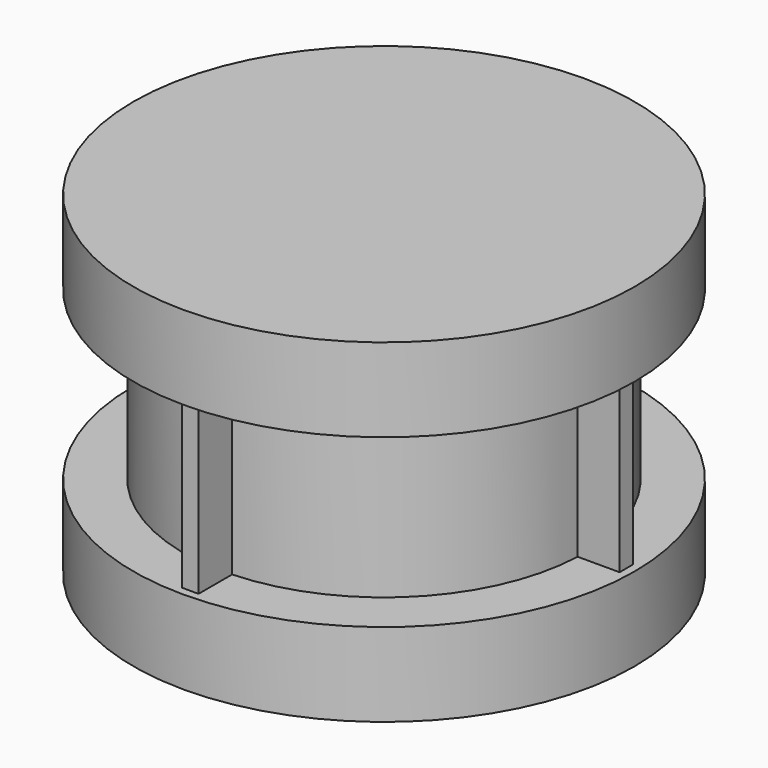
from build123d import *

# Parameters (mm, degrees)
CYLINDER005_R               = 12
CYLINDER005_DEPTH           = 20
CYLINDER006_R               = 15
CYLINDER006_DEPTH           = 3.5
CYLINDER007_R               = 15
CYLINDER007_DEPTH           = 1.5
CYLINDER008_R               = 15
CYLINDER008_DEPTH           = 1.5
CYLINDER009_R               = 15
CYLINDER009_DEPTH           = 3.5
BOX002_W                    = 29
BOX002_H                    = 1
BOX002_DEPTH                = 10
BOX003_W                    = 29
BOX003_H                    = 1
BOX003_DEPTH                = 10
COMPOUND001_PLACEMENT_ANGLE = 90


with BuildPart() as cylinder005:
    # Cylinder005 → Cylinder005 (new body)
    with BuildSketch(Plane.XY):
        Circle(CYLINDER005_R)
    extrude(amount=CYLINDER005_DEPTH)


with BuildPart() as cylinder006:
    # Cylinder006 → Cylinder006 (new body)
    with BuildSketch(Plane.XY):
        Circle(CYLINDER006_R)
    extrude(amount=CYLINDER006_DEPTH)


with BuildPart() as cylinder007:
    # Cylinder007 → Cylinder007 (new body)
    with BuildSketch(Plane.XY.offset(3.5)):
        Circle(CYLINDER007_R)
    extrude(amount=CYLINDER007_DEPTH)


with BuildPart() as cylinder008:
    # Cylinder008 → Cylinder008 (new body)
    with BuildSketch(Plane.XY.offset(18.5)):
        Circle(CYLINDER008_R)
    extrude(amount=CYLINDER008_DEPTH)


with BuildPart() as cylinder009:
    # Cylinder009 → Cylinder009 (new body)
    with BuildSketch(Plane.XY.offset(15)):
        Circle(CYLINDER009_R)
    extrude(amount=CYLINDER009_DEPTH)


with BuildPart() as cube002:
    # Box002 → Box002 (new body)
    with BuildSketch(Plane(origin=(-14.5, -0.5, 5), x_dir=(1, 0, 0), z_dir=(0, 0, 1))):
        with Locations((14.5, 0.5)):
            Rectangle(BOX002_W, BOX002_H)
    extrude(amount=BOX002_DEPTH)


with BuildPart() as basewheel_filledsides:
    # Box003 → Box003 (new body)
    with BuildSketch(Plane(origin=(-14.5, -0.5, 5), x_dir=(1, 0, 0), z_dir=(0, 0, 1))):
        with Locations((14.5, 0.5)):
            Rectangle(BOX003_W, BOX003_H)
    extrude(amount=BOX003_DEPTH)


with BuildPart() as basewheel_filledsides_1:
    # Compound001 placement: moved
    add(basewheel_filledsides.part.rotate(Axis((0, 0, 0), (0, 0, 1)), COMPOUND001_PLACEMENT_ANGLE))

    # Fusion001: union Cylinder005, Cylinder006, Cylinder007, Cylinder008, Cylinder009, Cube002
    add(cylinder005.part)
    add(cylinder006.part)
    add(cylinder007.part)
    add(cylinder008.part)
    add(cylinder009.part)
    add(cube002.part)


solid = basewheel_filledsides_1.part
